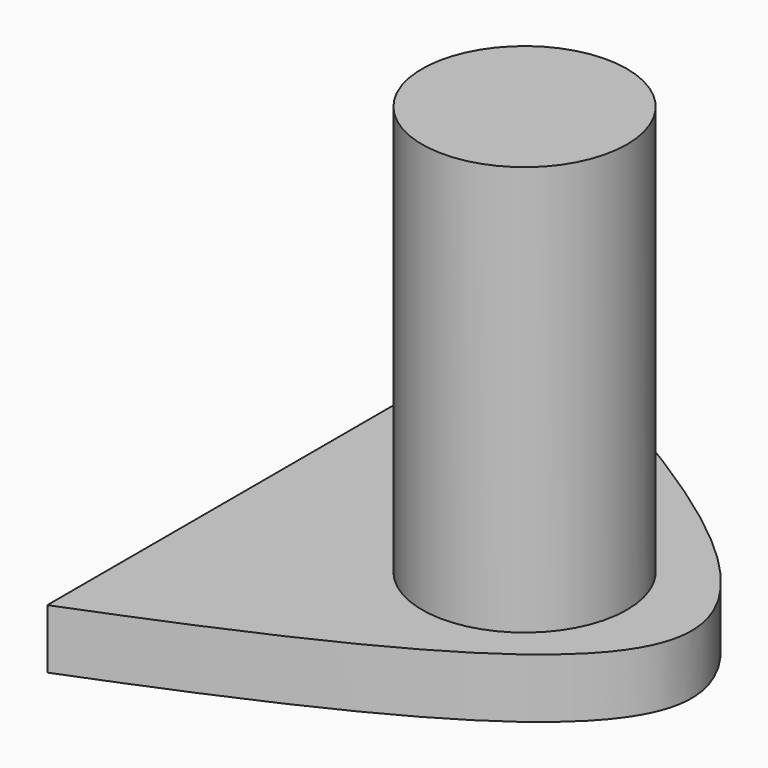
from build123d import *

# Parameters (mm, degrees)
F0_R     = 12.7
F1_DEPTH = 50.8
F2_DEPTH = 7.366


with BuildPart() as f1:
    # F0 (on Top) → F1 (new body)
    with BuildSketch(Plane.XY):
        Circle(F0_R)
    extrude(amount=F1_DEPTH)

    # F0 (on Top) → F2 (join)
    with BuildSketch(Plane.XY):
        with BuildLine():
            add(Edge.make_bspline(
                [(-31.75, 41.9196737826), (-3.513398833, 27.3716669519), (44.5186594733, -1.1066042147), (-4.1908437353, -23.3893115171), (-31.75, -34.2803262174)],
                knots=[0, 0, 0, 0, 0.5087224109, 1, 1, 1, 1], degree=3))
            Line((-31.75, 41.9196737826), (-31.75, -34.2803262174))
        make_face()
        Circle(F0_R, mode=Mode.SUBTRACT)
        Circle(F0_R)
    extrude(amount=-F2_DEPTH)


solid = f1.part
